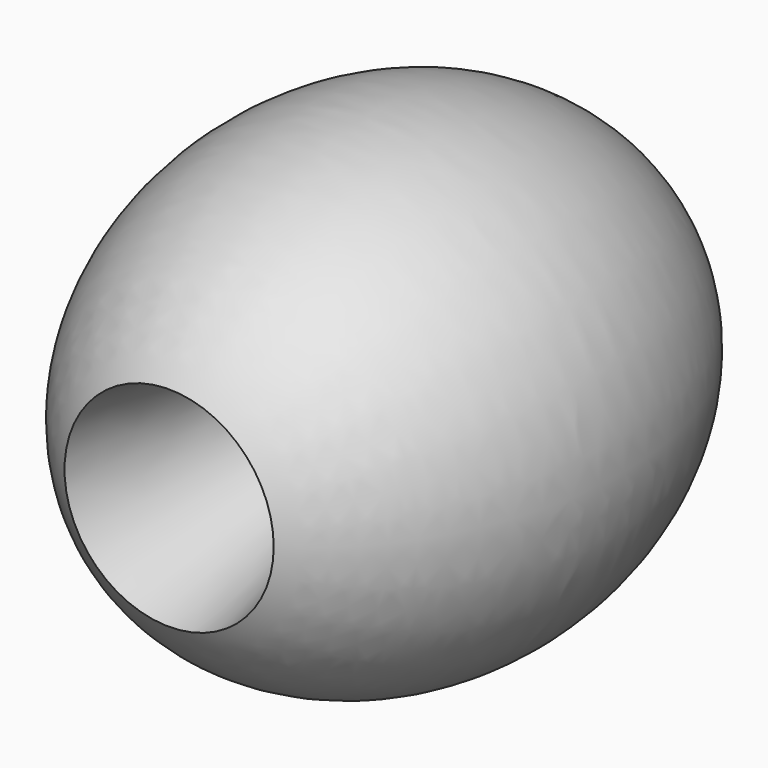
from build123d import *


with BuildPart() as f1:
    # F0 (on Top) → F1 (revolve)
    with BuildSketch(Plane.XY):
        with BuildLine():
            Line((6.35, -6.35), (11.1125, -28.5501845372))
            add(Edge.make_bspline(
                [(11.1125, -28.5501845372), (29.2894094809, -17.4955872837), (24.7517650865, 7.1272063581), (20.2141206921, 31.75), (0, 31.75)],
                knots=[3.5944092483, 3.5944092483, 3.5944092483, 4.9387972778, 4.9387972778, 6.2831853072, 6.2831853072, 6.2831853072], degree=2, weights=[1, 0.782457328, 1, 0.782457328, 1]))
            Line((0, 31.75), (0, 0))
            Line((0, 0), (6.35, 0))
            Line((6.35, 0), (6.35, -6.35))
        make_face()
    revolve(axis=Axis((0, 0, 0), (0, -1, 0)))


solid = f1.part
